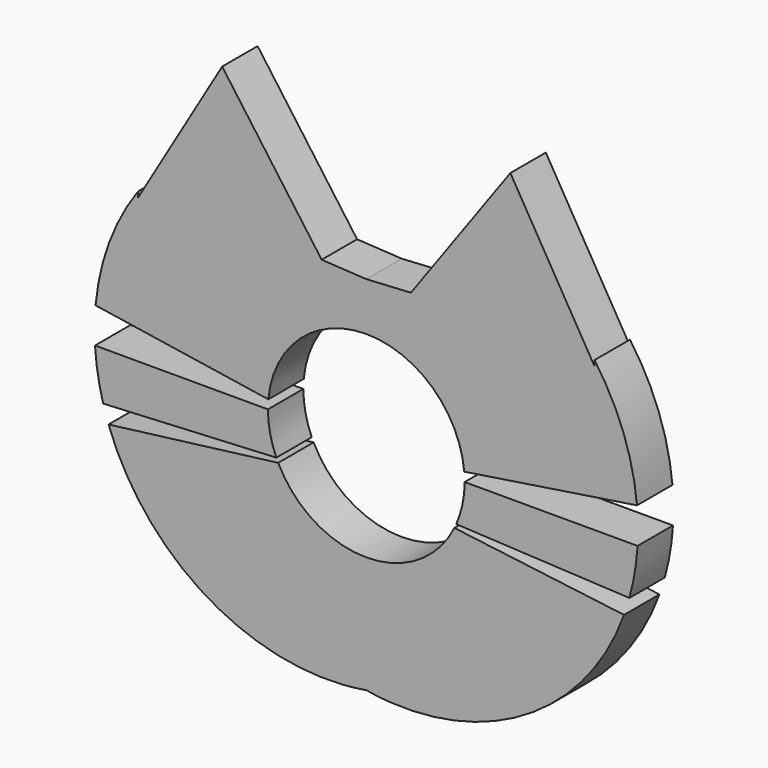
from build123d import *

# Parameters (mm, degrees)
F2_DEPTH = 5
F0_R     = 11.1
F3_DEPTH = 25


with BuildPart() as f2:
    # F1 (on Front) → F2 (new body)
    with BuildSketch(Plane.XZ):
        with BuildLine():
            Line((16.261037, 32.378148), (5.036615, 16.836636))
            Line((5.036615, 16.836636), (0, 16.548829))
            Line((0, 16.548829), (-5.036615, 16.836636))
            Line((-5.036615, 16.836636), (-16.261037, 32.378148))
            Line((-16.261037, 32.378148), (-25.75863, 16.261024))
            Line((-25.75863, 16.261024), (-25.75863, 16.885607))
            ThreePointArc((-25.75863, 16.885607), (-29.01269, 10.764473), (-30.551896, 4.00518))
            Line((-30.551896, 4.00518), (-4.461003, 0))
            Line((-4.461003, 0), (-30.612821, 0))
            ThreePointArc((-30.612821, 0), (-30.296459, -2.761579), (-29.690012, -5.474258))
            Line((-29.690012, -5.474258), (-3.885392, -4.173185))
            Line((-3.885392, -4.173185), (-29.088335, -7.350026))
            ThreePointArc((-29.088335, -7.350026), (-18.785708, -20.368363), (-2.73417, -24.607392))
            ThreePointArc((-2.73417, -24.607392), (-1.362916, -24.484219), (0, -24.289359))
            ThreePointArc((0, -24.289359), (1.362916, -24.484219), (2.73417, -24.607392))
            ThreePointArc((2.73417, -24.607392), (18.785708, -20.368363), (29.088335, -7.350026))
            Line((29.088335, -7.350026), (3.885392, -4.173185))
            Line((3.885392, -4.173185), (29.690012, -5.474258))
            ThreePointArc((29.690012, -5.474258), (30.296459, -2.761579), (30.612821, 0))
            Line((30.612821, 0), (4.461003, 0))
            Line((4.461003, 0), (30.551896, 4.00518))
            ThreePointArc((30.551896, 4.00518), (29.01269, 10.764473), (25.75863, 16.885607))
            Line((25.75863, 16.885607), (25.75863, 16.261024))
            Line((25.75863, 16.261024), (16.261037, 32.378148))
        make_face()
    extrude(amount=F2_DEPTH)

    # F0 (on Front) → F3 (cut)
    with BuildSketch(Plane.XZ):
        Circle(F0_R)
    extrude(amount=F3_DEPTH, mode=Mode.SUBTRACT)


solid = f2.part
